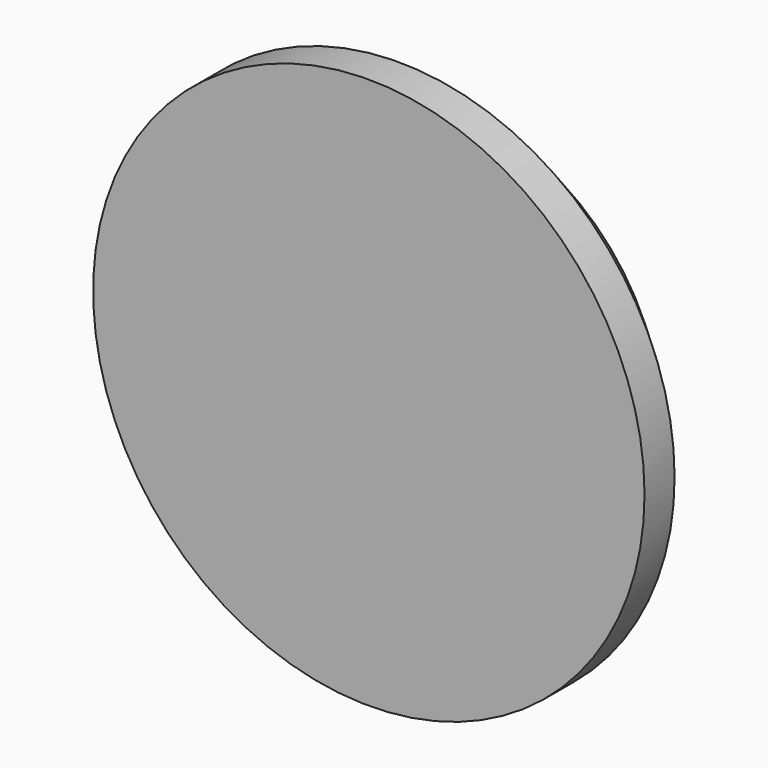
from build123d import *

# Parameters (mm, degrees)
BOX256_W          = 40
BOX256_H          = 20
BOX256_DEPTH      = 40
CYLINDER656_R     = 4.1
CYLINDER656_DEPTH = 10
CYLINDER657_R     = 11
CYLINDER657_DEPTH = 4
CHAMFER061_SIZE   = 2.5


with BuildPart() as krychle256:
    # Box256 → Box256 (new body)
    with BuildSketch(Plane(origin=(-20, 110, 30), x_dir=(1, 0, 0), z_dir=(0, 0, 1))):
        with Locations((20, 10)):
            Rectangle(BOX256_W, BOX256_H)
    extrude(amount=BOX256_DEPTH)


with BuildPart() as obj1:
    # Cylinder656 → Cylinder656 (new body)
    with BuildSketch(Plane(origin=(0, 118, 50), x_dir=(1, 0, 0), z_dir=(0, -1, 0))):
        Circle(CYLINDER656_R)
    extrude(amount=CYLINDER656_DEPTH)


with BuildPart() as chamfer061:
    # Cylinder657 → Cylinder657 (new body)
    with BuildSketch(Plane(origin=(0, 110, 50), x_dir=(1, 0, 0), z_dir=(0, -1, 0))):
        Circle(CYLINDER657_R)
    extrude(amount=CYLINDER657_DEPTH)

    # Cut265: cut obj1
    add(obj1.part, mode=Mode.SUBTRACT)

    # Cut552: cut Krychle256
    add(krychle256.part, mode=Mode.SUBTRACT)

    # Chamfer061
    chamfer061_edges = [chamfer061.edges().sort_by_distance(p)[0] for p in [
        (-11, 110, 50),
    ]]
    chamfer(chamfer061_edges, length=CHAMFER061_SIZE)


solid = chamfer061.part
